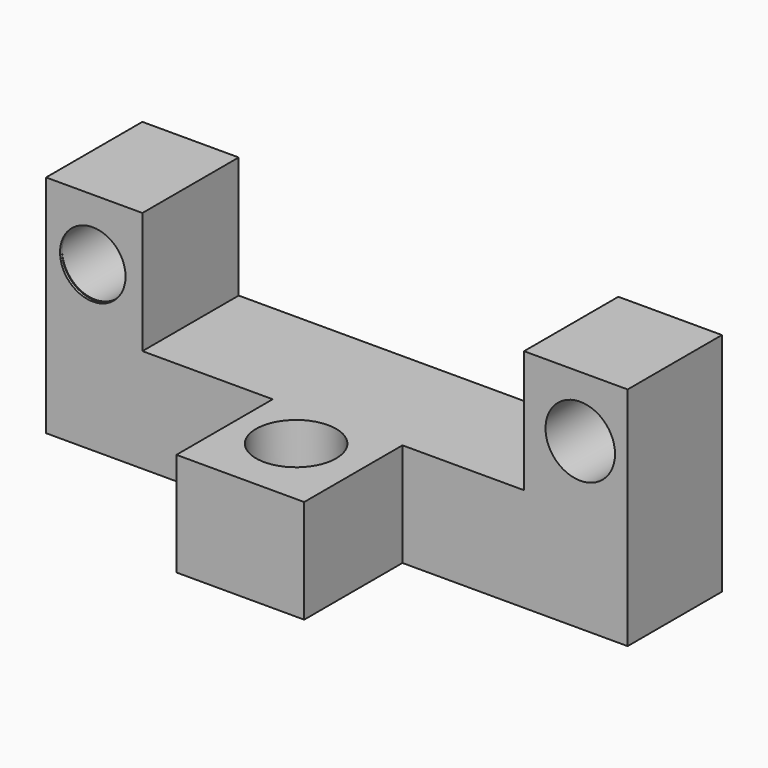
from build123d import *

# Parameters (mm, degrees)
F0_W      = 93.0914841592
F0_H      = 59.018785134
F1_DEPTH  = 25.4
F2_W      = 29.8136137426
F2_H      = 30.1178339869
F2_W_2    = 31.9431554526
F2_H_2    = 29.509392567
F3_DEPTH  = 25.4
F5_DEPTH  = 23.622
F6_W      = 28.9009511471
F6_H      = 55.4156415164
F7_DEPTH  = 25.4
F8_R      = 9.8202471376
F9_DEPTH  = 33.528
F10_R     = 8.1176194913
F10_R_2   = 8.5236088485
F11_DEPTH = 38.1
F12_R     = 8.0316605079
F13_DEPTH = 60.96


with BuildPart() as f1:
    # F0 (on Top) → F1 (new body)
    with BuildSketch(Plane.XY):
        with Locations((3.4985374659, -0.6084414199)):
            Rectangle(F0_W, F0_H)
    extrude(amount=F1_DEPTH)

    # F2 (on face) → F3 (cut)
    with BuildSketch(Plane.XY.offset(25.4)):
        with Locations((35.1374726743, -15.0589169934)):
            Rectangle(F2_W, F2_H)
        with Locations((-27.0756268874, -15.3631377034)):
            Rectangle(F2_W_2, F2_H_2)
    extrude(amount=-F3_DEPTH, mode=Mode.SUBTRACT)

    # F4 (on face) → F5 (join)
    with BuildSketch(Plane(origin=(-43.0472046137, 0, 0), x_dir=(0, -1, 0), z_dir=(-1, 0, 0))):
        Polygon((0, 0), (0.6084414199, 0), (0.6084414199, 55.2160292864), align=None)
        Polygon((0, 0), (0.6084414199, 55.2160292864), (-28.9009511471, 55.2160292864), (-28.9009511471, 0), align=None)
    extrude(amount=F5_DEPTH)

    # F6 (on face) → F7 (join)
    with BuildSketch(Plane.YZ.offset(50.0442795455)):
        with Locations((14.4504755735, 27.7078207582)):
            Rectangle(F6_W, F6_H)
    extrude(amount=F7_DEPTH)

    # F8 (on face) → F9 (cut)
    with BuildSketch(Plane.XY.offset(25.4)):
        with Locations((3.8986797445, -12.1688209474)):
            Circle(F8_R)
    extrude(amount=-F9_DEPTH, mode=Mode.SUBTRACT)

    # F10 (on Front) → F11 (cut)
    with BuildSketch(Plane.XZ):
        with Locations((-55.1201030612, 40.4613353312)):
            Circle(F10_R)
        with Locations((63.8301223516, 40.4613353312)):
            Circle(F10_R_2)
    extrude(amount=-F11_DEPTH, mode=Mode.SUBTRACT)

    # F12 (on Front) → F13 (cut)
    with BuildSketch(Plane.XZ):
        with Locations((-55.2160218358, 40.1571132243)):
            Circle(F12_R)
    extrude(amount=F13_DEPTH, mode=Mode.SUBTRACT)


solid = f1.part
